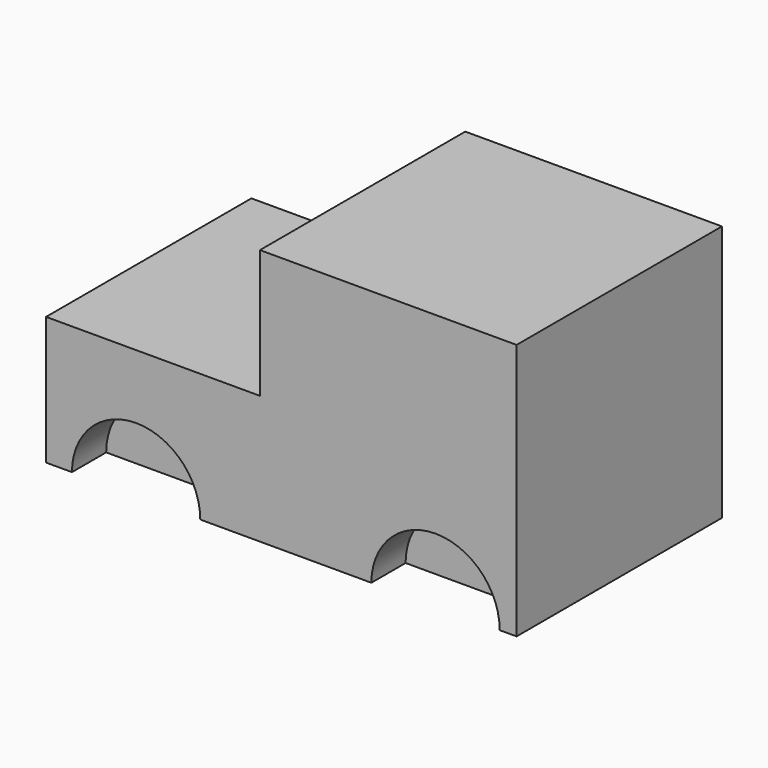
from build123d import *

# Parameters (mm, degrees)
F0_W     = 55
F0_H     = 30
F1_DEPTH = 30
F2_W     = 25
F2_H     = 15
F3_DEPTH = 30.001
F5_DEPTH = 5


with BuildPart() as f1:
    # F0 (on Top) → F1 (new body)
    with BuildSketch(Plane.XY):
        Rectangle(F0_W, F0_H)
    extrude(amount=F1_DEPTH)

    # F2 (on face) → F3 (cut, through all)
    with BuildSketch(Plane.XZ.offset(15)):
        with Locations((-15, 22.5)):
            Rectangle(F2_W, F2_H)
    extrude(amount=-F3_DEPTH, mode=Mode.SUBTRACT)

    # F4 (on face) → F5 (cut)
    with BuildSketch(Plane.XZ.offset(15)):
        with BuildLine():
            Line((-24.4766619802, 0), (-9.4766619802, 0))
            ThreePointArc((-9.4766619802, 0), (-16.9766619802, 7.5), (-24.4766619802, 0))
        make_face()
        with BuildLine():
            ThreePointArc((25.5233380198, 0), (18.0233380198, 7.5), (10.5233380198, 0))
            Line((10.5233380198, 0), (25.5233380198, 0))
        make_face()
    extrude(amount=-F5_DEPTH, mode=Mode.SUBTRACT)


solid = f1.part
